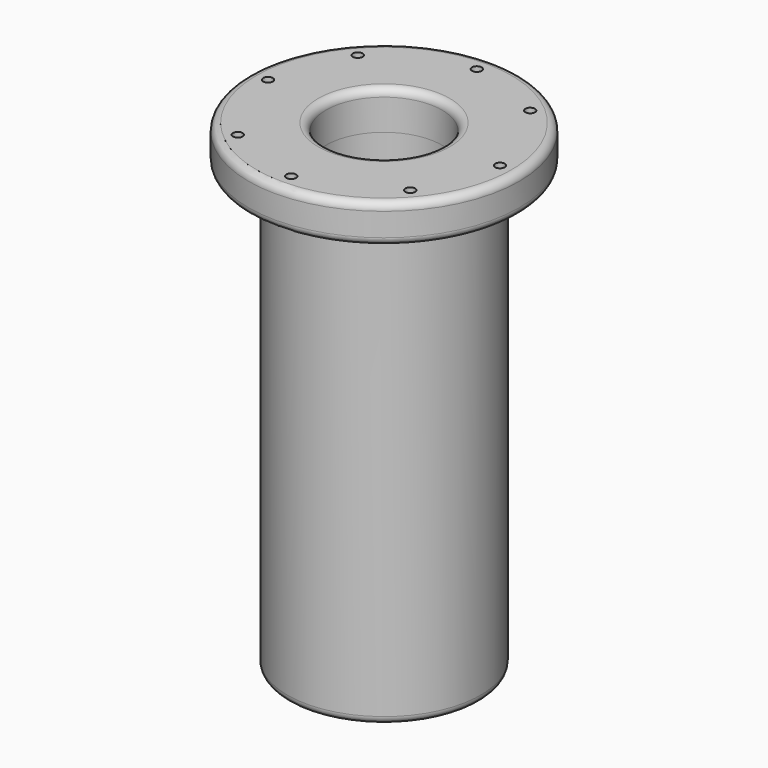
from build123d import *

# Parameters (mm, degrees)
F0_W  = 25.4
F0_H  = 290.144244
F3_R  = 5.08
F4_R  = 5.08
F7_D  = 6.35
F9_D  = 6.35
F11_D = 6.35


with BuildPart() as f1:
    # F0 (on Front) → F1 (revolve)
    with BuildSketch(Plane.XZ):
        Polygon((-63.5, 145.072122), (-38.1, 145.072122), (-38.1, 170.472122), (-88.9, 170.472122), (-88.9, 145.072122), align=None)
    revolve(axis=Axis((0, 0, 157.772122), (0, 0, 1)))

    # F0 (on Front) → F2 (revolve)
    with BuildSketch(Plane.XZ):
        with Locations((-50.8, 0)):
            Rectangle(F0_W, F0_H)
    revolve(axis=Axis((0, 0, 0), (0, 0, -1)))

    # F3
    f3_edges = [f1.edges().sort_by_distance(p)[0] for p in [
        (88.9, 0, 170.472122),
        (88.9, 0, 145.072122),
        (38.1, 0, 170.472122),
        (63.5, 0, -145.072122),
    ]]
    fillet(f3_edges, radius=F3_R)

    # F4
    f4_edges = [f1.edges().sort_by_distance(p)[0] for p in [
        (38.1, 0, -145.072122),
    ]]
    fillet(f4_edges, radius=F4_R)

    # F7 (through all)
    with Locations(Plane.XY.offset(170.472122)):
        with Locations((-76.2, 0), (0, 76.2)):
            Hole(F7_D / 2)

    # F9 (through all)
    with Locations(Plane.XY.offset(170.472122)):
        with Locations((0, -76.2), (76.2, 0)):
            Hole(F9_D / 2)

    # F11 (through all)
    with Locations(Plane.XY.offset(170.472122)):
        with Locations((-57.363182, 50.158802), (50.158802, 57.363182), (57.363182, -50.158802), (-50.158802, -57.363182)):
            Hole(F11_D / 2)


solid = f1.part
